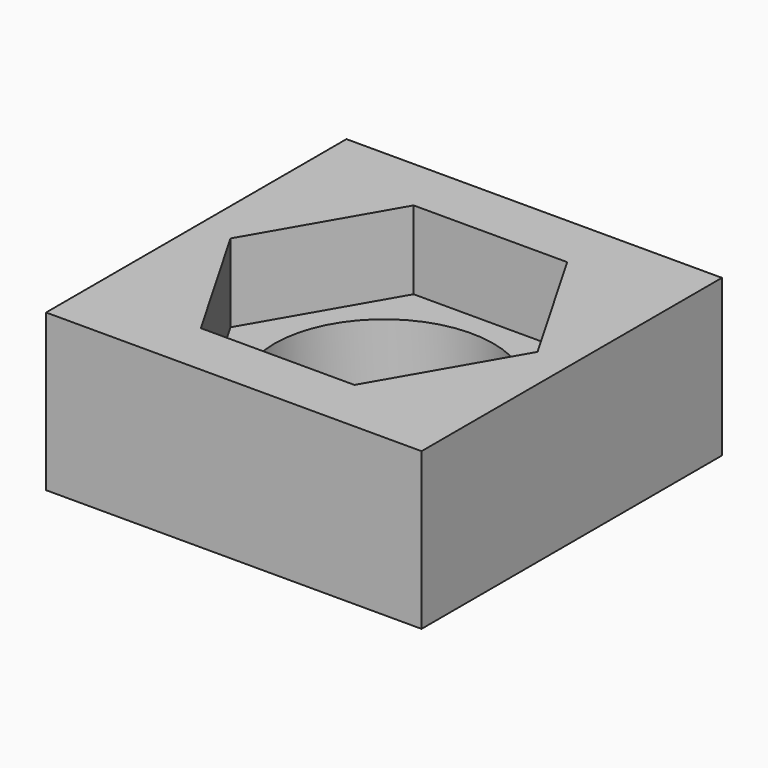
from build123d import *

# Parameters (mm, degrees)
F0_W     = 12
F0_H     = 12
F1_DEPTH = 5
F3_DEPTH = 2.5
F5_D     = 7


with BuildPart() as f1:
    # F0 (on Top) → F1 (new body)
    with BuildSketch(Plane.XY):
        Rectangle(F0_W, F0_H)
    extrude(amount=F1_DEPTH)

    # F2 (on face) → F3 (cut)
    with BuildSketch(Plane.XY.offset(5)):
        Polygon((2.453739, -4.25), (4.907477, 0), (2.453739, 4.25), (-2.453739, 4.25), (-4.907477, 0), (-2.453739, -4.25), align=None)
    extrude(amount=-F3_DEPTH, mode=Mode.SUBTRACT)

    # F5 (through all)
    with Locations(Plane.XY.offset(2.5)):
        with Locations((0, 0)):
            Hole(F5_D / 2)


solid = f1.part
